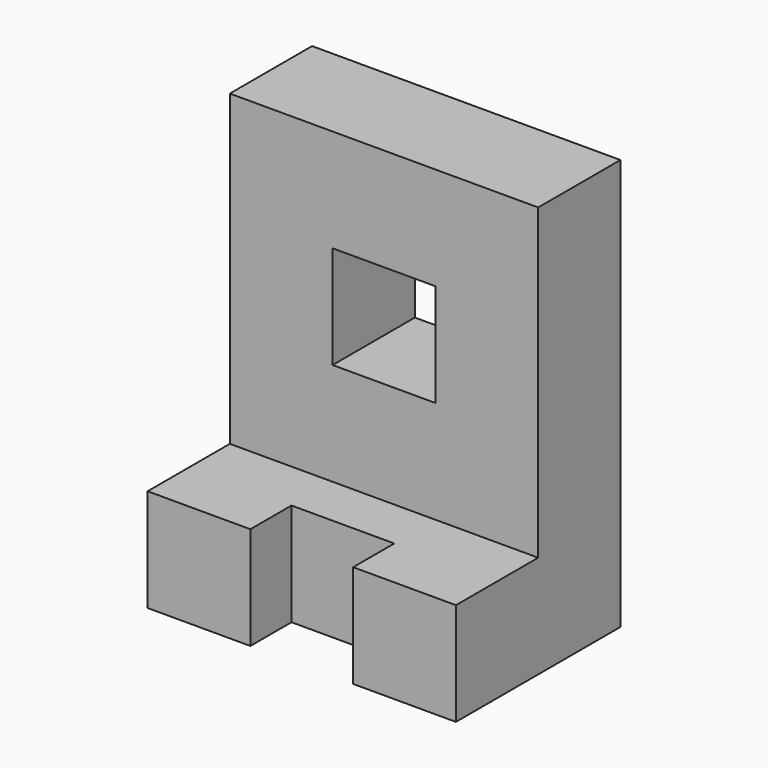
from build123d import *

# Parameters (mm, degrees)
F0_W     = 25.4
F0_H     = 25.4
F1_DEPTH = 38.1
F2_DEPTH = 12.7
F3_DEPTH = 25.4
F4_DEPTH = 12.7
F5_DEPTH = 12.7


with BuildPart() as f1:
    # F0 (on Front) → F1 (new body)
    with BuildSketch(Plane.XZ):
        with Locations((-25.4, -13.468404)):
            Rectangle(F0_W, F0_H)
        with Locations((25.4, -13.468404)):
            Rectangle(F0_W, F0_H)
    extrude(amount=F1_DEPTH)

    # F0 (on Front) → F2 (join)
    with BuildSketch(Plane.XZ):
        with Locations((25.4, -13.468404)):
            Rectangle(F0_W, F0_H)
        with Locations((-25.4, -13.468404)):
            Rectangle(F0_W, F0_H)
    extrude(amount=-F2_DEPTH)

    # F0 (on Front) → F3 (join)
    with BuildSketch(Plane.XZ):
        with Locations((0, -13.468404)):
            Rectangle(F0_W, F0_H)
    extrude(amount=F3_DEPTH)

    # F0 (on Front) → F4 (join)
    with BuildSketch(Plane.XZ):
        with Locations((0, -13.468404)):
            Rectangle(F0_W, F0_H)
    extrude(amount=-F4_DEPTH)

    # F0 (on Front) → F5 (join, symmetric)
    with BuildSketch(Plane.XZ):
        Polygon((38.1, 75.431596), (-38.1, 75.431596), (-38.1, -0.768404), (-12.7, -0.768404), (12.7, -0.768404), (38.1, -0.768404), align=None)
        with Locations((0, 37.331596)):
            Rectangle(F0_W, F0_H, mode=Mode.SUBTRACT)
    extrude(amount=F5_DEPTH, both=True)


solid = f1.part
